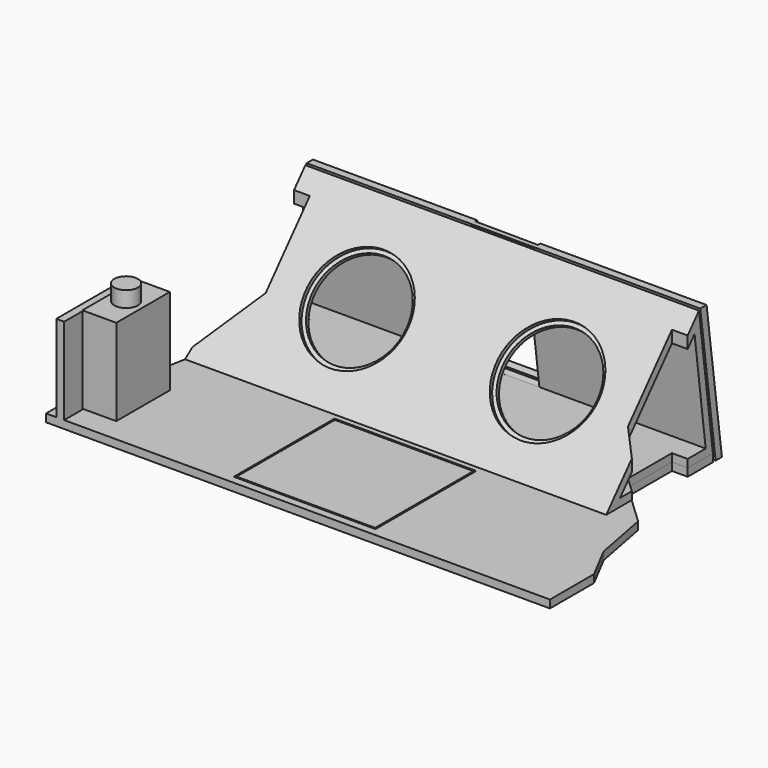
from build123d import *

# Parameters (mm, degrees)
F1_DEPTH  = 25.4
F3_DEPTH  = 1270
F5_DEPTH  = 25.4
F6_W      = 457.2
F6_H      = 406.4
F7_DEPTH  = 25.4
F8_W      = 447.04
F8_H      = 396.24
F9_DEPTH  = 25.4
F11_DEPTH = 1358.9
F12_R     = 165.1
F13_DEPTH = 12.7
F15_DEPTH = 1270
F17_DEPTH = 25.4
F18_R     = 152.4
F19_DEPTH = 25.4
F21_DEPTH = 508
F23_DEPTH = 279.4
F24_W     = 215.9
F24_H     = 279.4
F25_DEPTH = 109.22
F26_R     = 38.1
F27_DEPTH = 50.8


with BuildPart() as f1:
    # F0 (on Top) → F1 (new body)
    with BuildSketch(Plane.XY):
        Polygon((633.9916200739, 381), (-636.0083799261, 381), (-636.0083799261, 279.4), (-585.2083799261, 279.4), (-585.2083799261, 101.6), (-720.2711577423, -25.9932654437), (-755.401483878, -208.8168415053), (-813.8083799261, -320.4935488224), (-813.8083799261, -498.2935488224), (-636.0083799261, -498.2935488224), (633.9916200739, -498.2935488224), (811.7916200739, -498.2935488224), (811.7916200739, -320.4935488224), (753.3847240259, -208.8168415053), (718.2543978901, -25.9932654437), (583.1916200739, 101.6), (583.1916200739, 279.4), (633.9916200739, 279.4), align=None)
    extrude(amount=F1_DEPTH)

    # F6 (on face) → F7 (cut)
    with BuildSketch(Plane.XY.offset(25.4)):
        with Locations((0, -269.6935488224)):
            Rectangle(F6_W, F6_H)
    extrude(amount=-F7_DEPTH, mode=Mode.SUBTRACT)

    # F22 (on face) → F23 (join)
    with BuildSketch(Plane.XY.offset(25.4)):
        Polygon((-755.401483878, -498.2935488224), (-755.401483878, -208.8168415053), (-780.801483878, -257.3828252809), (-780.801483878, -498.2935488224), align=None)
    extrude(amount=F23_DEPTH)

    # F24 (on face) → F25 (join)
    with BuildSketch(Plane.YZ.offset(-755.401483878)):
        with Locations((-316.7668415053, 167.64)):
            Rectangle(F24_W, F24_H)
    extrude(amount=F25_DEPTH)

    # F26 (on face) → F27 (join)
    with BuildSketch(Plane.XY.offset(307.34)):
        with Locations((-700.791483878, -316.7668415053)):
            Circle(F26_R)
    extrude(amount=F27_DEPTH)


with BuildPart() as f3:
    # F2 (on face) → F3 (new body)
    with BuildSketch(Plane.YZ.offset(633.9916200739)):
        Polygon((355.6, 457.2), (330.2, 457.2), (392.1093138361, 0), (417.5093138361, 0), align=None)
    extrude(amount=-F3_DEPTH)

    # F4 (on face) → F5 (cut)
    with BuildSketch(Plane(origin=(0, 385.0491351938, 52.1393870364), x_dir=(1, 0, 0), z_dir=(0, -0.9909562863, -0.1341850913))):
        Polygon((97.7774903124, 0.2441267287), (97.289236855, 406.6438334321), (-4.3187378932, 406.5217603986), (-4.3187378932, 0.1214671018), align=None)
        Polygon((-4.3187378932, 0.1214671018), (-4.3187378932, 406.5217603986), (-105.9106164967, 406.3997067033), (-105.4223630393, 0), align=None)
    extrude(amount=-F5_DEPTH, mode=Mode.SUBTRACT)


with BuildPart() as f9:
    # F8 (on face) → F9 (new body)
    with BuildSketch(Plane.XY.offset(25.4)):
        with Locations((0, -269.6935488224)):
            Rectangle(F8_W, F8_H)
    extrude(amount=-F9_DEPTH)


with BuildPart() as f11:
    # F10 (on face) → F11 (new body)
    with BuildSketch(Plane.YZ.offset(633.9916200739)):
        Polygon((137.9962750452, 239.4747816958), (381, 25.4), (324.9715128924, 453.5495633916), align=None)
        Polygon((-48.9789628019, 25.4), (381, 25.4), (137.9962750452, 239.4747816958), align=None)
    extrude(amount=-F11_DEPTH)

    # F12 (on face) → F13 (cut)
    with BuildSketch(Plane(origin=(0, -40.3685730448, 35.2583498477), x_dir=(1, 0, 0), z_dir=(0, -0.7531695417, 0.6578264524))):
        with Locations((304.2439635869, 253.8648922865)):
            Circle(F12_R)
        with Locations((-312.8653432209, 258.1381852401)):
            Circle(F12_R)
    extrude(amount=-F13_DEPTH, mode=Mode.SUBTRACT)

    # F14 (on face) → F15 (cut)
    with BuildSketch(Plane.YZ.offset(633.9916200739)):
        Polygon((352.0595440659, 50.8), (307.0873524009, 394.4613269455), (6.9298194327, 50.8), align=None)
    extrude(amount=-F15_DEPTH, mode=Mode.SUBTRACT)

    # F16 (on face) → F17 (cut)
    with BuildSketch(Plane(origin=(0, 377.8532138761, 49.446608691), x_dir=(-1, 0, 0), z_dir=(0, 0.9915460014, 0.1297556441))):
        Polygon((105.8487479012, 356.7483680457), (-97.3513987472, 356.7483680457), (-97.3513987472, 2.0923885114), (105.4223630393, 1.8487761264), align=None)
    extrude(amount=-F17_DEPTH, mode=Mode.SUBTRACT)

    # F18 (on face) → F19 (cut)
    with BuildSketch(Plane(origin=(0, -30.8033198656, 26.9039539021), x_dir=(1, 0, 0), z_dir=(0, -0.7531695417, 0.6578264524))):
        with Locations((304.2439635869, 253.8648922865)):
            Circle(F18_R)
        with Locations((-312.8653432209, 258.1381852401)):
            Circle(F18_R)
    extrude(amount=-F19_DEPTH, mode=Mode.SUBTRACT)

    # F20 (on face) → F21 (cut)
    with BuildSketch(Plane(origin=(0, 0, 25.4), x_dir=(1, 0, 0), z_dir=(0, 0, -1))):
        Polygon((583.1916200739, -102.1105647087), (583.1916200739, -279.4), (633.9916200739, -279.4), (633.9916200739, -54.3372150012), align=None)
        Polygon((-636.0083799261, -381), (-636.0083799261, -279.4), (-585.2083799261, -279.4), (-585.2083799261, -101.6003191471), (-719.9740735159, 25.6968111728), (-724.9083799261, 48.9789628019), (-724.9083799261, -381), align=None)
    extrude(amount=-F21_DEPTH, mode=Mode.SUBTRACT)


solid = Compound([f1.part, f3.part, f9.part, f11.part])
